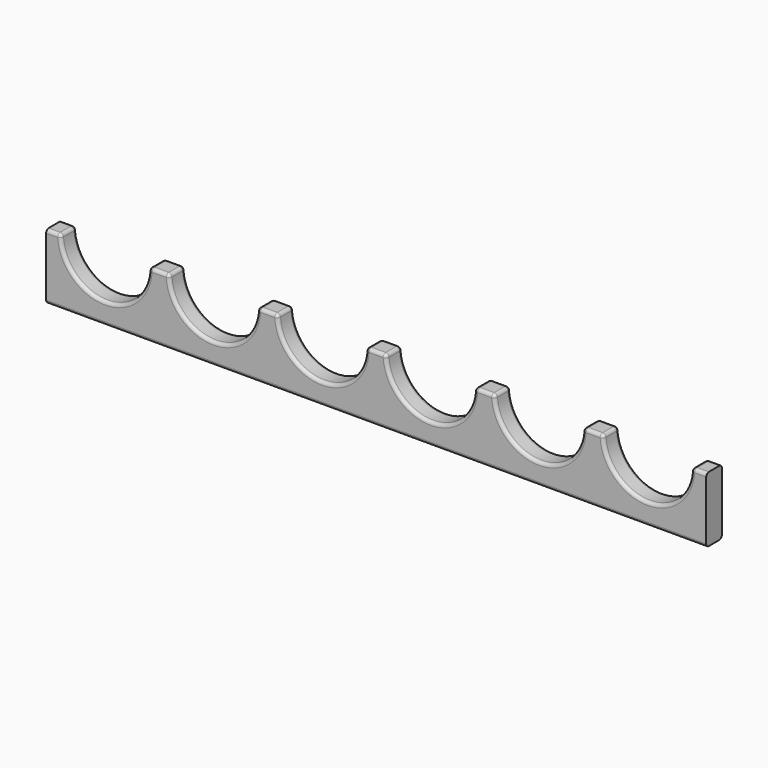
from build123d import *

# Parameters (mm, degrees)
F1_DEPTH = 19.05
F2_R     = 3.175
F3_R     = 3.175


with BuildPart() as f1:
    # F0 (on Front) → F1 (new body)
    with BuildSketch(Plane.XZ):
        with BuildLine():
            Line((-320.675, 31.75), (-320.675, -31.75))
            Line((-320.675, -31.75), (320.675, -31.75))
            Line((320.675, -31.75), (320.675, 31.75))
            Line((320.675, 31.75), (306.3875, 31.75))
            ThreePointArc((306.3875, 31.75), (263.525, -11.1125), (220.6625, 31.75))
            Line((220.6625, 31.75), (200.9775, 31.75))
            ThreePointArc((200.9775, 31.75), (158.115, -11.1125), (115.2525, 31.75))
            Line((115.2525, 31.75), (95.5675, 31.75))
            ThreePointArc((95.5675, 31.75), (52.705, -11.1125), (9.8425, 31.75))
            Line((9.8425, 31.75), (-9.8425, 31.75))
            ThreePointArc((-9.8425, 31.75), (-52.705, -11.1125), (-95.5675, 31.75))
            Line((-95.5675, 31.75), (-115.2525, 31.75))
            ThreePointArc((-115.2525, 31.75), (-158.115, -11.1125), (-200.9775, 31.75))
            Line((-200.9775, 31.75), (-220.6625, 31.75))
            ThreePointArc((-220.6625, 31.75), (-263.525, -11.1125), (-306.3875, 31.75))
            Line((-306.3875, 31.75), (-320.675, 31.75))
        make_face()
    extrude(amount=-F1_DEPTH)

    # F2
    f2_edges = [f1.edges().sort_by_distance(p)[0] for p in [
        (-313.53125, 0, 31.75),
        (-306.3875, 9.525, 31.75),
        (-313.53125, 19.05, 31.75),
        (-263.525, 19.05, -11.1125),
        (-263.525, 0, -11.1125),
        (-220.6625, 9.525, 31.75),
        (-210.82, 19.05, 31.75),
        (-210.82, 0, 31.75),
        (-200.9775, 9.525, 31.75),
        (-158.115, 19.05, -11.1125),
        (-158.115, 0, -11.1125),
        (-115.2525, 9.525, 31.75),
        (-105.41, 0, 31.75),
        (-105.41, 19.05, 31.75),
        (-95.5675, 9.525, 31.75),
        (-52.705, 19.05, -11.1125),
        (-52.705, 0, -11.1125),
        (-9.8425, 9.525, 31.75),
        (9.8425, 9.525, 31.75),
        (0, 0, 31.75),
        (0, 19.05, 31.75),
        (52.705, 0, -11.1125),
        (52.705, 19.05, -11.1125),
        (115.2525, 9.525, 31.75),
        (95.5675, 9.525, 31.75),
        (105.41, 0, 31.75),
        (105.41, 19.05, 31.75),
        (200.9775, 9.525, 31.75),
        (158.115, 0, -11.1125),
        (158.115, 19.05, -11.1125),
        (220.6625, 9.525, 31.75),
        (210.82, 0, 31.75),
        (210.82, 19.05, 31.75),
        (306.3875, 9.525, 31.75),
        (263.525, 0, -11.1125),
        (263.525, 19.05, -11.1125),
        (313.53125, 19.05, 31.75),
        (313.53125, 0, 31.75),
    ]]
    fillet(f2_edges, radius=F2_R)

    # F3
    f3_edges = [f1.edges().sort_by_distance(p)[0] for p in [
        (0, 0, -31.75),
        (0, 19.05, -31.75),
    ]]
    fillet(f3_edges, radius=F3_R)


solid = f1.part
